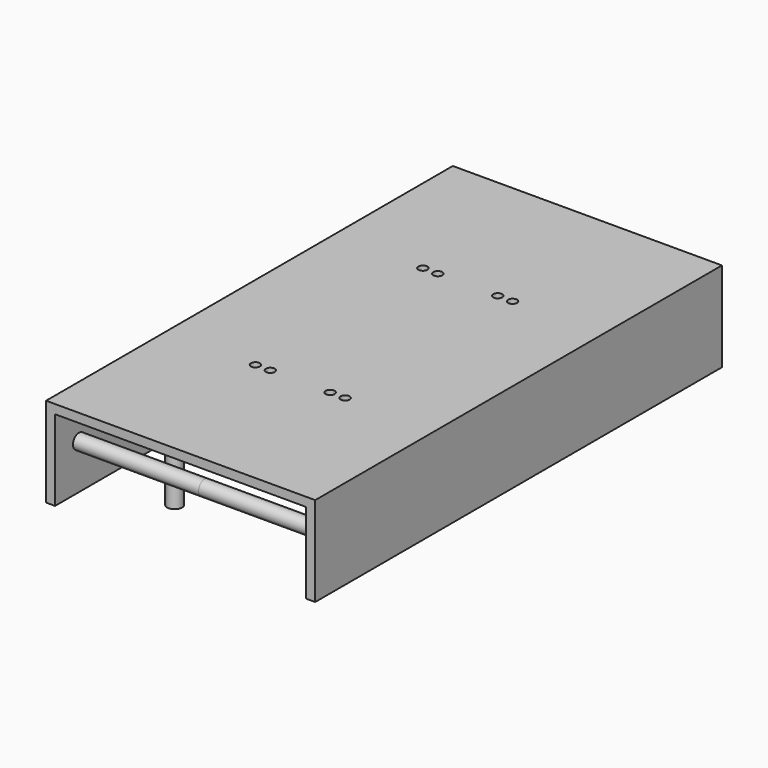
from build123d import *

# Parameters (mm, degrees)
F1_DEPTH      = 85
F2_R          = 2.5
F3_DEPTH      = 45
F4_R          = 2.5
F5_DEPTH      = 15
F5_DEPTH_BACK = 25
F6_R          = 1.5
F7_DEPTH      = 15


with BuildPart() as f1:
    # F0 (on Front) → F1 (new body, symmetric)
    with BuildSketch(Plane.XZ):
        Polygon((42, -15), (45, -15), (45, 15), (-45, 15), (-45, -15), (-42, -15), (-42, 12), (42, 12), align=None)
    extrude(amount=F1_DEPTH, both=True)

    # F2 (on Right) → F3 (join, symmetric)
    with BuildSketch(Plane.YZ):
        with Locations((-75, 0)):
            Circle(F2_R)
        with Locations((75, 0)):
            Circle(F2_R)
    extrude(amount=F3_DEPTH, both=True)

    # F4 (on Top) → F5 (join, two sides)
    with BuildSketch(Plane.XY) as f5_sk:
        with Locations((-30, -50)):
            Circle(F4_R)
        with Locations((30, -50)):
            Circle(F4_R)
        with Locations((30, 50)):
            Circle(F4_R)
        with Locations((-30, 50)):
            Circle(F4_R)
    extrude(amount=F5_DEPTH)
    extrude(f5_sk.sketch, amount=-F5_DEPTH_BACK)

    # F6 (on Top) → F7 (cut)
    with BuildSketch(Plane.XY):
        with Locations((-10, 35)):
            Circle(F6_R)
        with Locations((10, 35)):
            Circle(F6_R)
        with Locations((10, -35)):
            Circle(F6_R)
        with Locations((-10, -35)):
            Circle(F6_R)
        with Locations((-15, 35)):
            Circle(F6_R)
        with Locations((15, 35)):
            Circle(F6_R)
        with Locations((15, -35)):
            Circle(F6_R)
        with Locations((-15, -35)):
            Circle(F6_R)
    extrude(amount=F7_DEPTH, mode=Mode.SUBTRACT)


solid = f1.part
